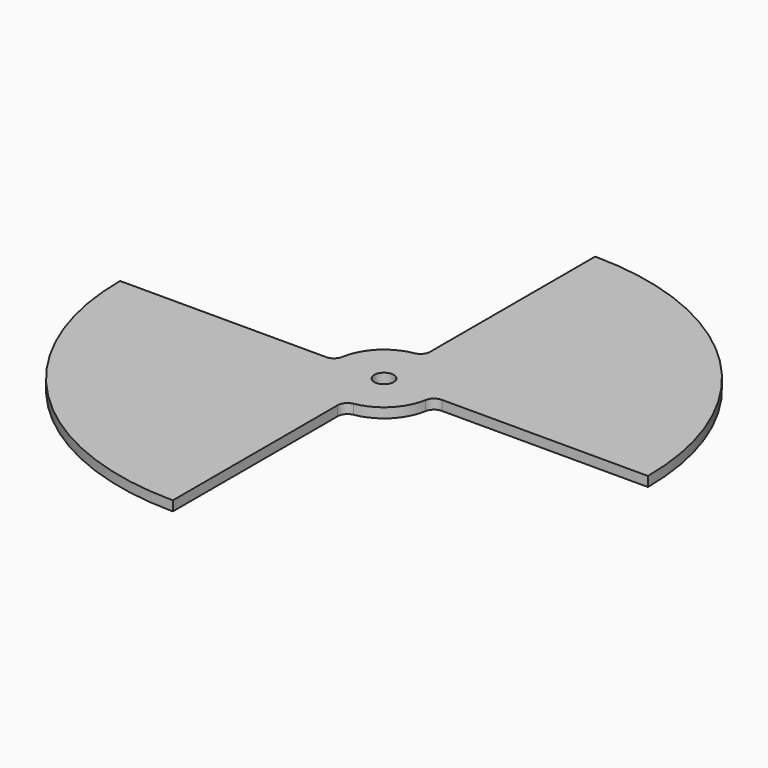
from build123d import *

# Parameters (mm, degrees)
F0_R     = 1
F1_DEPTH = 1


with BuildPart() as f1:
    # F0 (on Top) → F1 (new body)
    with BuildSketch(Plane.XY):
        with BuildLine():
            ThreePointArc((0, 5.91608), (-0.236237, 5.270583), (-0.833333, 4.930066))
            ThreePointArc((-0.833333, 4.930066), (-3.535534, 3.535534), (-4.930066, 0.833333))
            ThreePointArc((-4.930066, 0.833333), (-5.270583, 0.236237), (-5.91608, 0))
            Line((-5.91608, 0), (-27, 0))
            ThreePointArc((-27, 0), (-19.091883, -19.091883), (0, -27))
            Line((0, -27), (0, -5.91608))
            ThreePointArc((0, -5.91608), (0.236237, -5.270583), (0.833333, -4.930066))
            ThreePointArc((0.833333, -4.930066), (3.535534, -3.535534), (4.930066, -0.833333))
            ThreePointArc((4.930066, -0.833333), (5.270583, -0.236237), (5.91608, 0))
            Line((5.91608, 0), (27, 0))
            ThreePointArc((27, 0), (19.091883, 19.091883), (0, 27))
            Line((0, 27), (0, 5.91608))
        make_face()
        Circle(F0_R, mode=Mode.SUBTRACT)
    extrude(amount=F1_DEPTH)


solid = f1.part
